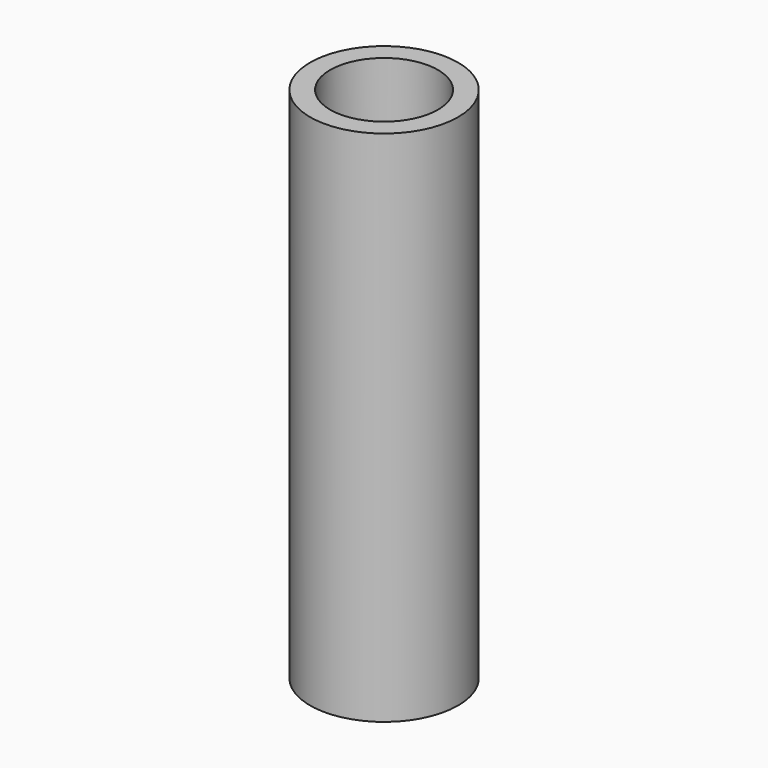
from build123d import *

# Parameters (mm, degrees)
F0_R     = 12.7
F1_DEPTH = 73.66
F2_R     = 5.1125641025
F3_DEPTH = 73.661
F3_TAPER = -2.9356734464
F4_R     = 12.7
F5_DEPTH = 15.24
F8_D     = 18.5
F8_DEPTH = 19.7358
F8_TIP   = 5.557960726


with BuildPart() as f1:
    # F0 (on Top) → F1 (new body)
    with BuildSketch(Plane.XY):
        Circle(F0_R)
    extrude(amount=F1_DEPTH)

    # F2 (on Top) → F3 (cut, through all)
    with BuildSketch(Plane.XY):
        Circle(F2_R)
    extrude(amount=F3_DEPTH, taper=F3_TAPER, mode=Mode.SUBTRACT)

    # F4 (on face) → F5 (join)
    with BuildSketch(Plane.XY.offset(73.66)):
        Circle(F4_R)
    extrude(amount=F5_DEPTH)

    # F8
    with Locations(Plane.XY.offset(88.9)):
        with Locations((0, 0)):
            Hole(F8_D / 2, depth=F8_DEPTH)
            with Locations((0, 0, -(F8_DEPTH + F8_TIP / 2))):  # 118° drill point
                Cone(0, F8_D / 2, F8_TIP, mode=Mode.SUBTRACT)


solid = f1.part
